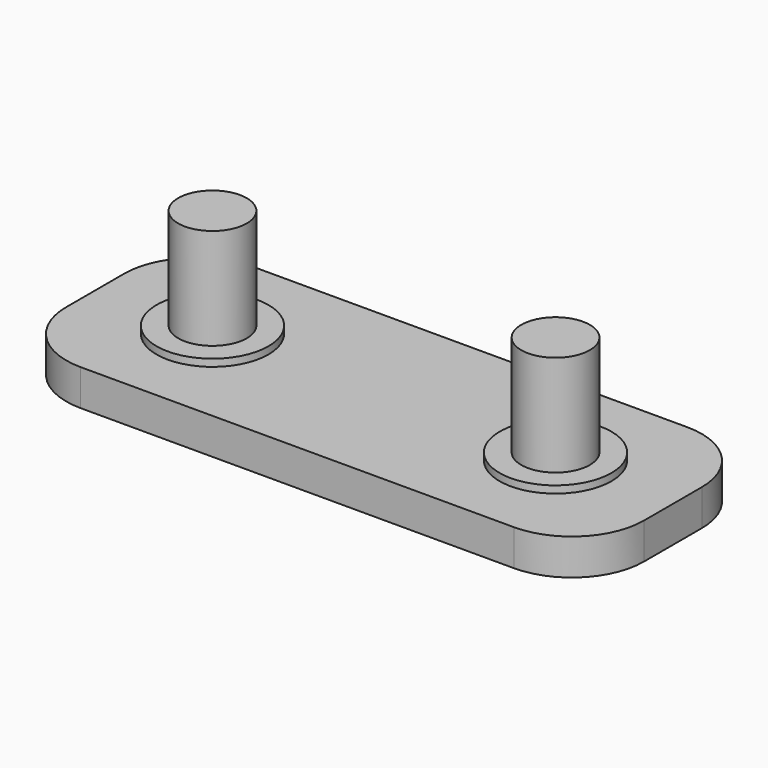
from build123d import *

# Parameters (mm, degrees)
F0_R     = 7.75
F1_DEPTH = 5
F0_R_2   = 4.75
F2_DEPTH = 6
F3_DEPTH = 20


with BuildPart() as f1:
    # F0 (on Top) → F1 (new body)
    with BuildSketch(Plane.XY):
        with BuildLine():
            Line((70, 0), (10, 0))
            ThreePointArc((10, 0), (2.928932, -2.928932), (0, -10))
            Line((0, -10), (0, -20))
            ThreePointArc((0, -20), (2.928932, -27.071068), (10, -30))
            Line((10, -30), (70, -30))
            ThreePointArc((70, -30), (77.071068, -27.071068), (80, -20))
            Line((80, -20), (80, -10))
            ThreePointArc((80, -10), (77.071068, -2.928932), (70, 0))
        make_face()
        with Locations((16.25, -15)):
            Circle(F0_R, mode=Mode.SUBTRACT)
        with Locations((63.75, -15)):
            Circle(F0_R, mode=Mode.SUBTRACT)
    extrude(amount=F1_DEPTH)

    # F0 (on Top) → F2 (join)
    with BuildSketch(Plane.XY):
        with Locations((16.25, -15)):
            Circle(F0_R)
        with Locations((16.25, -15)):
            Circle(F0_R_2, mode=Mode.SUBTRACT)
        with Locations((63.75, -15)):
            Circle(F0_R)
        with Locations((63.75, -15)):
            Circle(F0_R_2, mode=Mode.SUBTRACT)
    extrude(amount=F2_DEPTH)

    # F0 (on Top) → F3 (join)
    with BuildSketch(Plane.XY):
        with Locations((16.25, -15)):
            Circle(F0_R_2)
        with Locations((63.75, -15)):
            Circle(F0_R_2)
    extrude(amount=F3_DEPTH)


solid = f1.part
